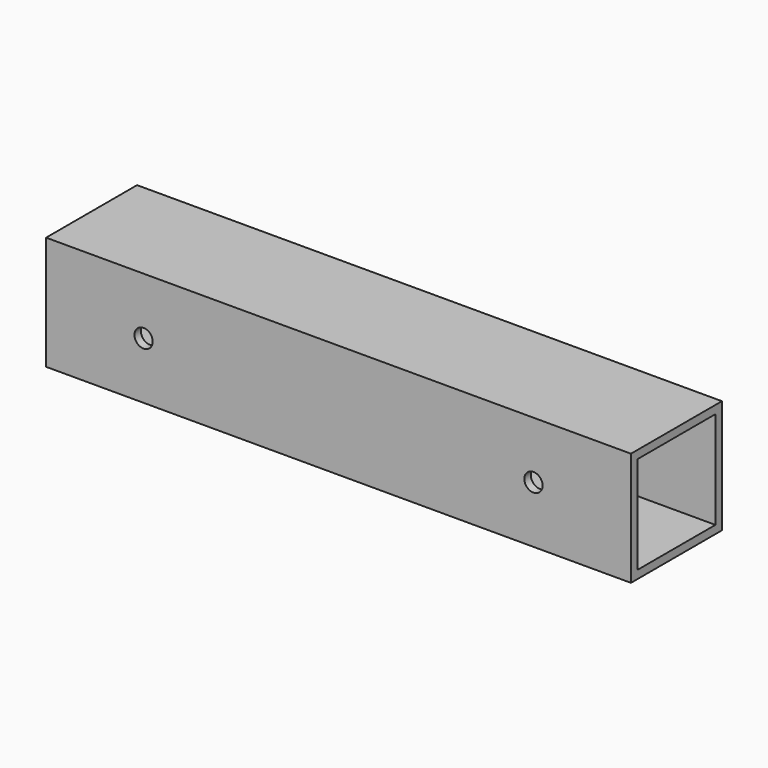
from build123d import *

# Parameters (mm, degrees)
F0_W     = 88.9
F0_H     = 88.9
F0_W_2   = 76.2
F0_H_2   = 76.2
F1_DEPTH = 457.2
F2_R     = 7.14375
F3_DEPTH = 88.901


with BuildPart() as f1:
    # F0 (on Right) → F1 (new body)
    with BuildSketch(Plane.YZ):
        Rectangle(F0_W, F0_H)
        Rectangle(F0_W_2, F0_H_2, mode=Mode.SUBTRACT)
    extrude(amount=F1_DEPTH)

    # F2 (on face) → F3 (cut, through all)
    with BuildSketch(Plane.XZ.offset(44.45)):
        with Locations((381, 0)):
            Circle(F2_R)
        with Locations((76.2, 0)):
            Circle(F2_R)
    extrude(amount=-F3_DEPTH, mode=Mode.SUBTRACT)


solid = f1.part
